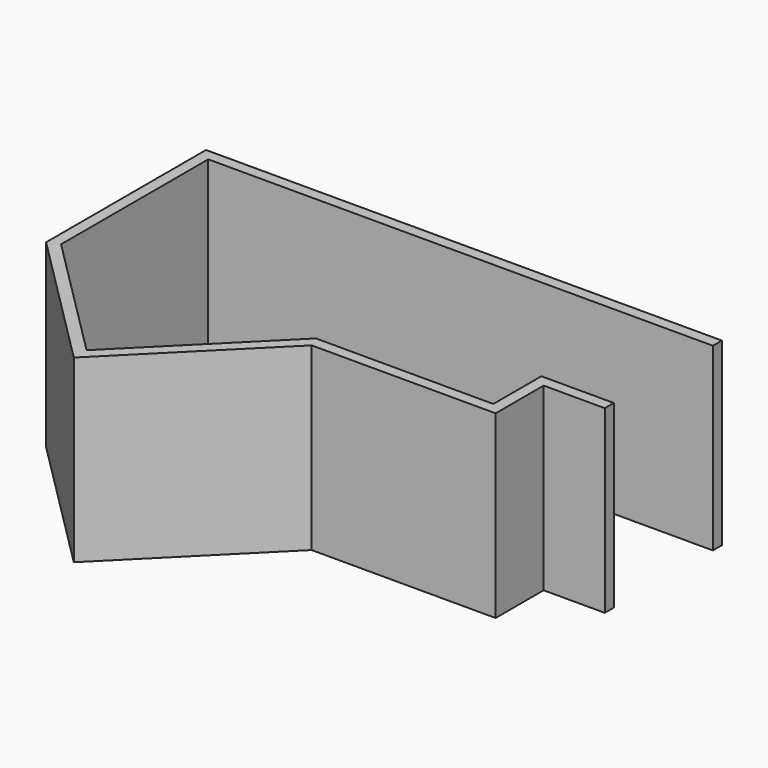
from build123d import *

# Parameters (mm, degrees)
F1_DEPTH = 2438.4


with BuildPart() as f1:
    # F0 (on Top) → F1 (new body)
    with BuildSketch(Plane.XY):
        Polygon((1724.2091752453, -1724.2091752453), (0, 0), (0, 2489.2), (6828.4293704906, 2489.2), (6828.4293704906, 2641.6), (-152.4, 2641.6), (-152.4, -63.1261469057), (1724.2091752453, -1939.7353221509), (3511.5444973962, -152.4), (6001.1183504906, -152.4), (6001.1183504906, 660.4), (6828.4293704906, 660.4), (6828.4293704906, 812.8), (5848.7183504906, 812.8), (5848.7183504906, 0), (3448.4183504906, 0), align=None)
    extrude(amount=F1_DEPTH)


solid = f1.part
